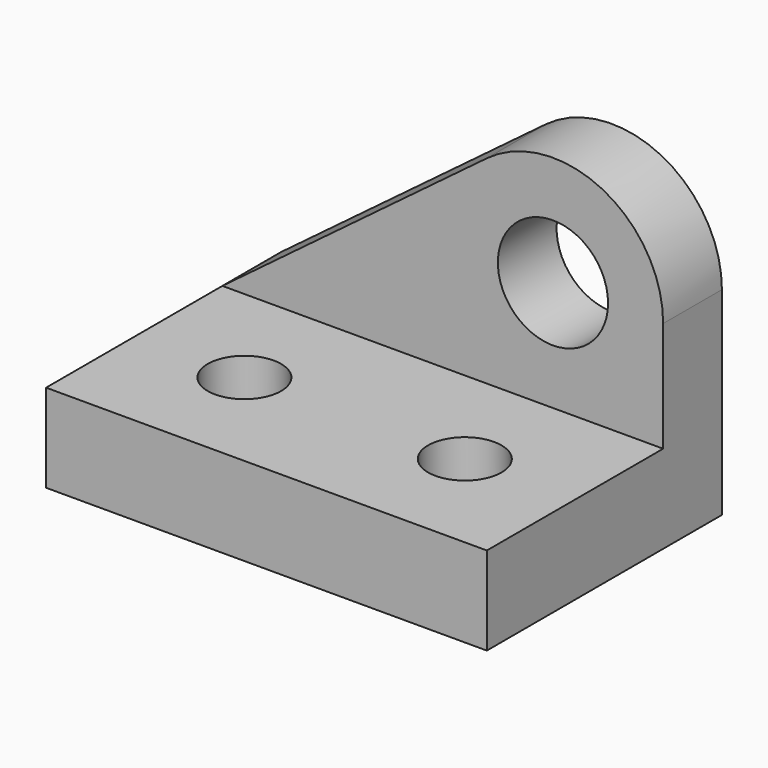
from build123d import *

# Parameters (mm, degrees)
F0_W     = 60
F0_H     = 12
F1_DEPTH = 40
F0_R     = 7.5
F2_DEPTH = 10
F3_R     = 5
F4_DEPTH = 12.001


with BuildPart() as f1:
    # F0 (on Front) → F1 (new body)
    with BuildSketch(Plane.XZ):
        with Locations((30, 6)):
            Rectangle(F0_W, F0_H)
    extrude(amount=F1_DEPTH)

    # F0 (on Front) → F2 (join)
    with BuildSketch(Plane.XZ):
        with BuildLine():
            Line((36, 39), (0, 12))
            Line((0, 12), (60, 12))
            Line((60, 12), (60, 27))
            ThreePointArc((60, 27), (51.708204, 40.416408), (36, 39))
        make_face()
        with Locations((45, 27)):
            Circle(F0_R, mode=Mode.SUBTRACT)
    extrude(amount=F2_DEPTH)

    # F3 (on face) → F4 (cut, through all)
    with BuildSketch(Plane.XY.offset(12)):
        with Locations((15, -25)):
            Circle(F3_R)
        with Locations((45, -25)):
            Circle(F3_R)
    extrude(amount=-F4_DEPTH, mode=Mode.SUBTRACT)


solid = f1.part
